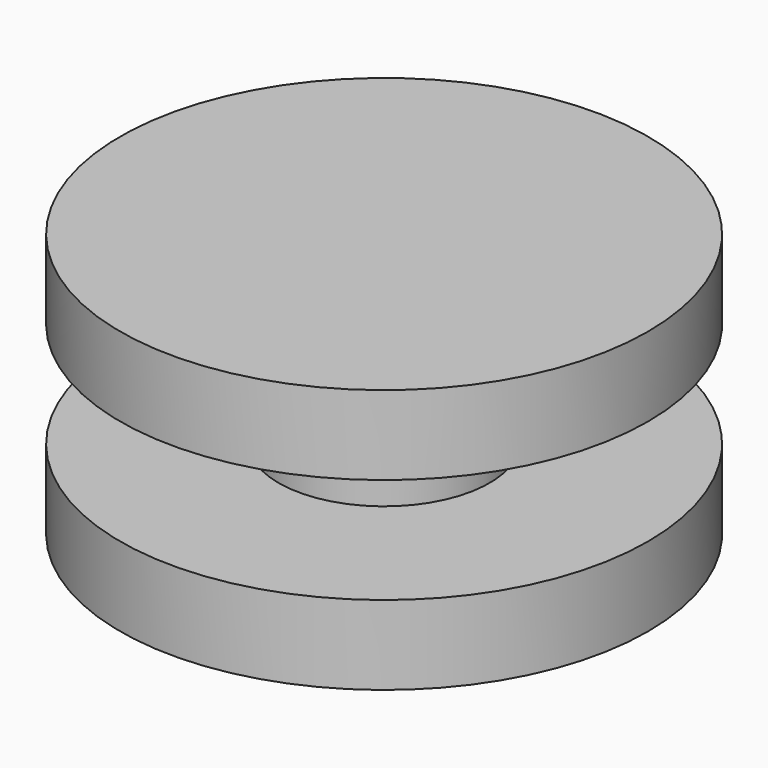
from build123d import *

# Parameters (mm, degrees)
F0_R     = 63.5
F1_DEPTH = 63.5
F2_W     = 38.1
F2_H     = 25.4


with BuildPart() as f1:
    # F0 (on Top) → F1 (new body)
    with BuildSketch(Plane.XY):
        Circle(F0_R)
    extrude(amount=F1_DEPTH)

    # F2 (on Front) → F3 (revolve, cut)
    with BuildSketch(Plane.XZ):
        with Locations((-44.45, 31.75)):
            Rectangle(F2_W, F2_H)
    revolve(axis=Axis((0, 0, 31.75), (0, 0, 1)), mode=Mode.SUBTRACT)


solid = f1.part
